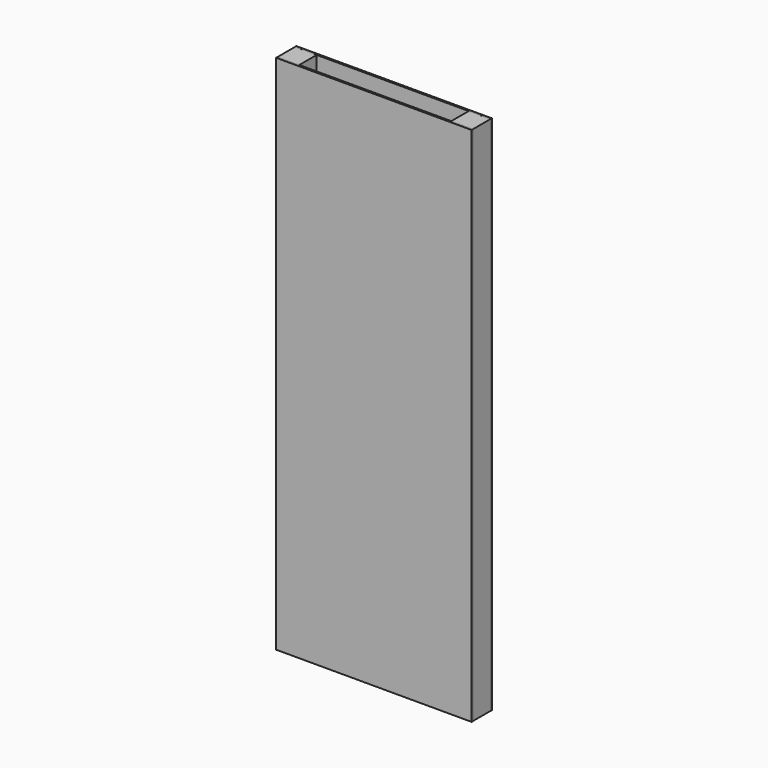
from build123d import *

# Parameters (mm, degrees)
F0_W     = 152.4
F0_H     = 228.6
F0_R     = 6.35
F1_DEPTH = 3.175
F2_W     = 38.1
F2_H     = 914.4
F3_DEPTH = 38.1
F6_W     = 38.1
F6_H     = 914.4
F7_DEPTH = 3.175


with BuildPart() as f1:
    # F0 (on Front) → F1 (new body)
    with BuildSketch(Plane.XZ):
        Rectangle(F0_W, F0_H)
        with Locations((-50.8, -88.9)):
            Circle(F0_R, mode=Mode.SUBTRACT)
        with Locations((-50.8, -63.5)):
            Circle(F0_R, mode=Mode.SUBTRACT)
        with Locations((-25.4, -88.9)):
            Circle(F0_R, mode=Mode.SUBTRACT)
        with Locations((-25.4, -63.5)):
            Circle(F0_R, mode=Mode.SUBTRACT)
        with Locations((-50.8, -38.1)):
            Circle(F0_R, mode=Mode.SUBTRACT)
        with Locations((-50.8, -12.7)):
            Circle(F0_R, mode=Mode.SUBTRACT)
        with Locations((-25.4, -38.1)):
            Circle(F0_R, mode=Mode.SUBTRACT)
        with Locations((-25.4, -12.7)):
            Circle(F0_R, mode=Mode.SUBTRACT)
        with Locations((0, -88.9)):
            Circle(F0_R, mode=Mode.SUBTRACT)
        with Locations((25.4, -88.9)):
            Circle(F0_R, mode=Mode.SUBTRACT)
        with Locations((0, -63.5)):
            Circle(F0_R, mode=Mode.SUBTRACT)
        with Locations((25.4, -63.5)):
            Circle(F0_R, mode=Mode.SUBTRACT)
        with Locations((50.8, -88.9)):
            Circle(F0_R, mode=Mode.SUBTRACT)
        with Locations((50.8, -63.5)):
            Circle(F0_R, mode=Mode.SUBTRACT)
        with Locations((0, -38.1)):
            Circle(F0_R, mode=Mode.SUBTRACT)
        with Locations((25.4, -38.1)):
            Circle(F0_R, mode=Mode.SUBTRACT)
        with Locations((0, -12.7)):
            Circle(F0_R, mode=Mode.SUBTRACT)
        with Locations((25.4, -12.7)):
            Circle(F0_R, mode=Mode.SUBTRACT)
        with Locations((50.8, -38.1)):
            Circle(F0_R, mode=Mode.SUBTRACT)
        with Locations((50.8, -12.7)):
            Circle(F0_R, mode=Mode.SUBTRACT)
        with Locations((-50.8, 12.7)):
            Circle(F0_R, mode=Mode.SUBTRACT)
        with Locations((-50.8, 38.1)):
            Circle(F0_R, mode=Mode.SUBTRACT)
        with Locations((-25.4, 12.7)):
            Circle(F0_R, mode=Mode.SUBTRACT)
        with Locations((-25.4, 38.1)):
            Circle(F0_R, mode=Mode.SUBTRACT)
        with Locations((-50.8, 63.5)):
            Circle(F0_R, mode=Mode.SUBTRACT)
        with Locations((-50.8, 88.9)):
            Circle(F0_R, mode=Mode.SUBTRACT)
        with Locations((-25.4, 63.5)):
            Circle(F0_R, mode=Mode.SUBTRACT)
        with Locations((-25.4, 88.9)):
            Circle(F0_R, mode=Mode.SUBTRACT)
        with Locations((0, 12.7)):
            Circle(F0_R, mode=Mode.SUBTRACT)
        with Locations((25.4, 12.7)):
            Circle(F0_R, mode=Mode.SUBTRACT)
        with Locations((0, 38.1)):
            Circle(F0_R, mode=Mode.SUBTRACT)
        with Locations((25.4, 38.1)):
            Circle(F0_R, mode=Mode.SUBTRACT)
        with Locations((50.8, 12.7)):
            Circle(F0_R, mode=Mode.SUBTRACT)
        with Locations((50.8, 38.1)):
            Circle(F0_R, mode=Mode.SUBTRACT)
        with Locations((0, 63.5)):
            Circle(F0_R, mode=Mode.SUBTRACT)
        with Locations((25.4, 63.5)):
            Circle(F0_R, mode=Mode.SUBTRACT)
        with Locations((0, 88.9)):
            Circle(F0_R, mode=Mode.SUBTRACT)
        with Locations((25.4, 88.9)):
            Circle(F0_R, mode=Mode.SUBTRACT)
        with Locations((50.8, 63.5)):
            Circle(F0_R, mode=Mode.SUBTRACT)
        with Locations((50.8, 88.9)):
            Circle(F0_R, mode=Mode.SUBTRACT)
    extrude(amount=F1_DEPTH)


with BuildPart() as f3:
    # F2 (on Right) → F3 (new body)
    with BuildSketch(Plane.YZ):
        with Locations((-127.0000359535, 9.2506e-06)):
            Rectangle(F2_W, F2_H)
    extrude(amount=F3_DEPTH)


with BuildPart() as f4_1:
    # F4: copy of F3
    add(f3.part.moved(Location((304.8, 0, 0))))


with BuildPart() as f4_1_1:
    # F5: moved
    add(f4_1.part.moved(Location((-152.4, 0, 0))))


with BuildPart() as f3_1:
    # F5: moved
    add(f3.part.moved(Location((-152.4, 0, 0))))


with BuildPart() as f7:
    # F6 (on face) → F7 (new body)
    with BuildSketch(Plane.XZ.offset(146.0500359535)):
        Polygon((-114.3, 457.2000092506), (-114.3, -457.1999907494), (190.6573921442, -457.1999907494), (190.6573921442, 457.2280049324), (-152.4, 457.2280049324), (-152.4, 457.2000092506), align=None)
        with Locations((-133.35, 9.2506e-06)):
            Rectangle(F6_W, F6_H)
    extrude(amount=F7_DEPTH)


with BuildPart() as f8_1:
    # F8: copy of F7
    add(f7.part.moved(Location((0, 41.275, 0))))


solid = Compound([f1.part, f4_1_1.part, f3_1.part, f7.part, f8_1.part])
